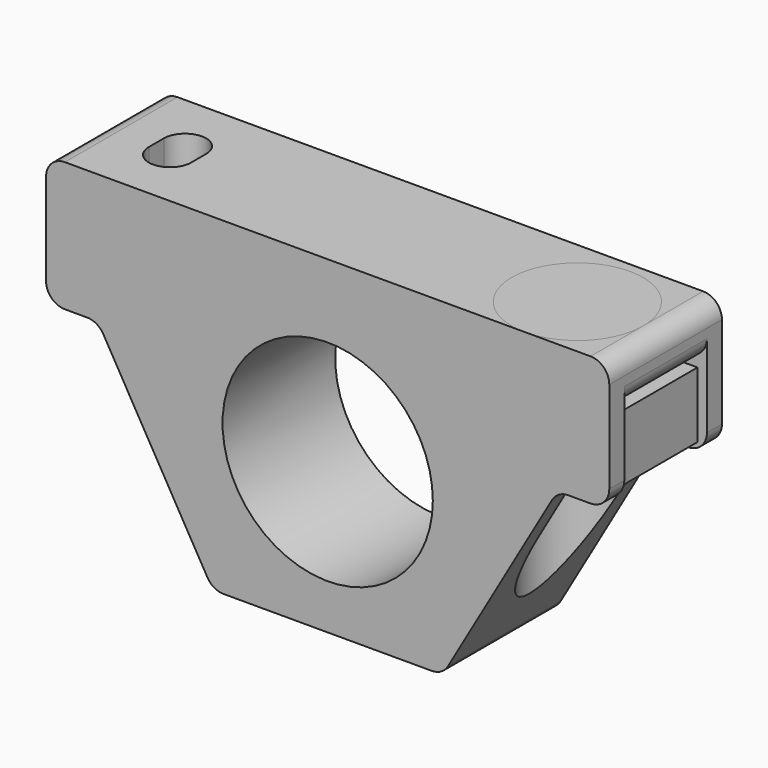
from build123d import *

# Parameters (mm, degrees)
SKETCH_R          = 11.2
PAD_DEPTH         = 15
POCKET_DEPTH      = 8.8
POCKET_DEPTH_BACK = -100
POCKET001_DEPTH   = 5
FILLET_R          = 2
BOX_W             = 6
BOX_H             = 11
BOX_DEPTH         = 7
CYLINDER_R        = 7
CYLINDER_DEPTH    = 5


with BuildPart() as body:
    # Sketch → Pad (new body)
    with BuildSketch(Plane.XZ):
        Polygon((12.239826, -16), (24.479651, 5.2), (30, 5.2), (30, 19), (-30, 19), (-30, 5.2), (-24.479651, 5.2), (-12.239826, -16), align=None)
        Circle(SKETCH_R, mode=Mode.SUBTRACT)
    extrude(amount=PAD_DEPTH)

    # Sketch001 (on Face1 of Pad) → Pocket (cut, two sides)
    with BuildSketch(Plane(origin=(0, 0, 5.2), x_dir=(1, 0, 0), z_dir=(0, 0, -1))) as pocket_sk:
        with BuildLine():
            ThreePointArc((-30, 13), (-35.5, 7.5), (-30, 2))
            Line((-30, 2), (-21, 2))
            ThreePointArc((-21, 2), (-15.5, 7.5), (-21, 13))
            Line((-30, 13), (-21, 13))
        make_face()
        with BuildLine():
            ThreePointArc((30, 2), (35.5, 7.5), (30, 13))
            Line((30, 13), (21, 13))
            ThreePointArc((21, 13), (15.5, 7.5), (21, 2))
            Line((30, 2), (21, 2))
        make_face()
    extrude(amount=-POCKET_DEPTH, mode=Mode.SUBTRACT)
    extrude(pocket_sk.sketch, amount=-POCKET_DEPTH_BACK, mode=Mode.SUBTRACT)

    # Sketch002 (on Face10 of Pocket) → Pocket001 (cut)
    with BuildSketch(Plane(origin=(0, 0, 19), x_dir=(-1, 0, 0), z_dir=(0, 0, 1))):
        with BuildLine():
            ThreePointArc((-19.75, 8.5), (-22, 10.75), (-24.25, 8.5))
            Line((-24.25, 8.5), (-24.25, 6.5))
            ThreePointArc((-24.25, 6.5), (-22, 4.25), (-19.75, 6.5))
            Line((-19.75, 8.5), (-19.75, 6.5))
        make_face()
        with BuildLine():
            ThreePointArc((24.25, 8.5), (22, 10.75), (19.75, 8.5))
            Line((19.75, 8.5), (19.75, 6.5))
            ThreePointArc((19.75, 6.5), (22, 4.25), (24.25, 6.5))
            Line((24.25, 8.5), (24.25, 6.5))
        make_face()
    extrude(amount=-POCKET001_DEPTH, mode=Mode.SUBTRACT)

    # Fillet
    fillet_edges = [body.edges().sort_by_distance(p)[0] for p in [
        (12.239826, -7.5, -16),
        (-12.239826, -7.5, -16),
        (30, -7.5, 14),
        (30, -7.5, 19),
        (30, -1, 5.2),
        (30, -14, 5.2),
        (24.479651, -14, 5.2),
        (24.479651, -1, 5.2),
        (-24.479651, -1, 5.2),
        (-30, -1, 5.2),
        (-30, -7.5, 14),
        (-30, -7.5, 19),
        (-30, -14, 5.2),
        (-24.479651, -14, 5.2),
    ]]
    fillet(fillet_edges, radius=FILLET_R)


with BuildPart() as cube:
    # Box → Box (new body)
    with BuildSketch(Plane(origin=(-29, -13, 6), x_dir=(1, 0, 0), z_dir=(0, 0, 1))):
        with Locations((3, 5.5)):
            Rectangle(BOX_W, BOX_H)
    extrude(amount=BOX_DEPTH)


with BuildPart() as support_cube:
    # Part__Mirroring: instance of Cube
    add(cube.part.mirror(Plane(origin=(0, 0, 0), x_dir=(0, -1, 0), z_dir=(1, 0, 0))))


with BuildPart() as cylinder:
    # Cylinder → Cylinder (new body)
    with BuildSketch(Plane(origin=(-21, -8, 14), x_dir=(1, 0, 0), z_dir=(0, 0, 1))):
        Circle(CYLINDER_R)
    extrude(amount=CYLINDER_DEPTH)


with BuildPart() as obj1:
    # Part__Mirroring001: instance of Cylinder
    add(cylinder.part.mirror(Plane(origin=(0, 0, 0), x_dir=(0, -1, 0), z_dir=(1, 0, 0))))


solid = Compound([body.part, support_cube.part, obj1.part])
